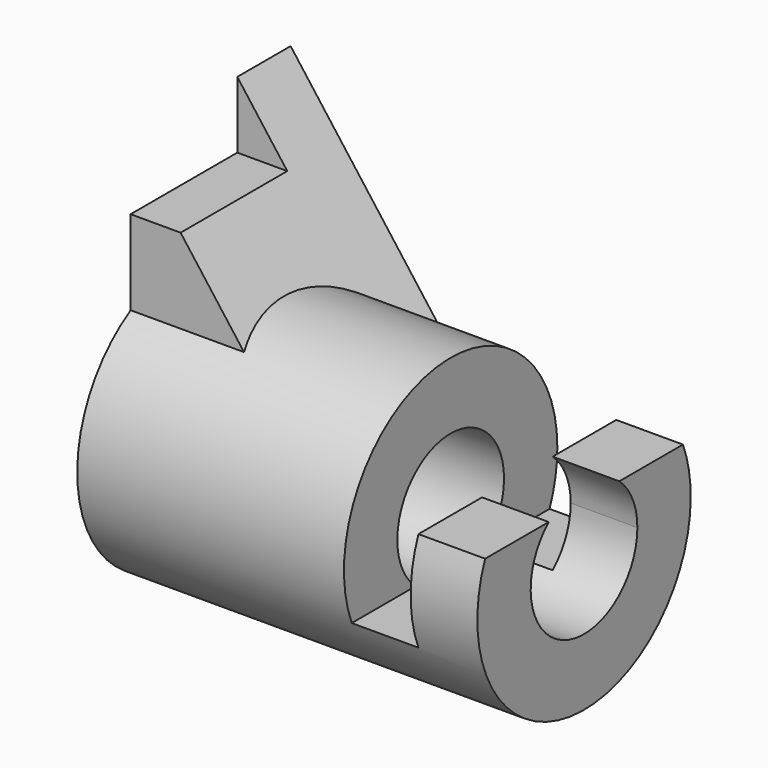
from build123d import *

# Parameters (mm, degrees)
F1_DEPTH  = 38.1
F3_DEPTH  = 38.101
F5_R      = 25.4
F6_DEPTH  = 50.8
F6_FACE_R = 25.4
F7_DEPTH  = 25.4
F8_R      = 12.7
F9_DEPTH  = 76.201
F11_DEPTH = 50.801


with BuildPart() as f1:
    # F0 (on Right) → F1 (new body)
    with BuildSketch(Plane.YZ):
        Polygon((-38.1, 0), (0, 0), (0, 50.8), (-12.7, 50.8), (-12.7, 38.1), (-38.1, 38.1), align=None)
    extrude(amount=-F1_DEPTH)

    # F2 (on Front) → F3 (cut, through all)
    with BuildSketch(Plane.XZ):
        Polygon((-38.1, 50.8), (0, 0), (0, 50.8), align=None)
    extrude(amount=F3_DEPTH, mode=Mode.SUBTRACT)

    # F5 (on offset) → F6 (join)
    with BuildSketch(Plane.YZ.offset(12.7)):
        with Locations((-25.4, 0)):
            Circle(F5_R)
    extrude(amount=-F6_DEPTH)

    # F6_face (on face) → F7 (join)
    with BuildSketch(Plane(origin=(12.7, -25.4, 0), x_dir=(0, 1, 0), z_dir=(1, 0, 0))):
        Circle(F6_FACE_R)
    extrude(amount=F7_DEPTH)

    # F8 (on face) → F9 (cut, through all)
    with BuildSketch(Plane.YZ.offset(38.1)):
        with Locations((-25.4, 0)):
            Circle(F8_R)
    extrude(amount=-F9_DEPTH, mode=Mode.SUBTRACT)

    # F10 (on Front) → F11 (cut, through all)
    with BuildSketch(Plane.XZ):
        Polygon((38.1, 9.525), (38.1, 25.4), (12.7, 25.4), (12.7, 0), (12.7, -9.525), (25.4, -9.525), (25.4, 9.525), align=None)
    extrude(amount=F11_DEPTH, mode=Mode.SUBTRACT)


solid = f1.part
